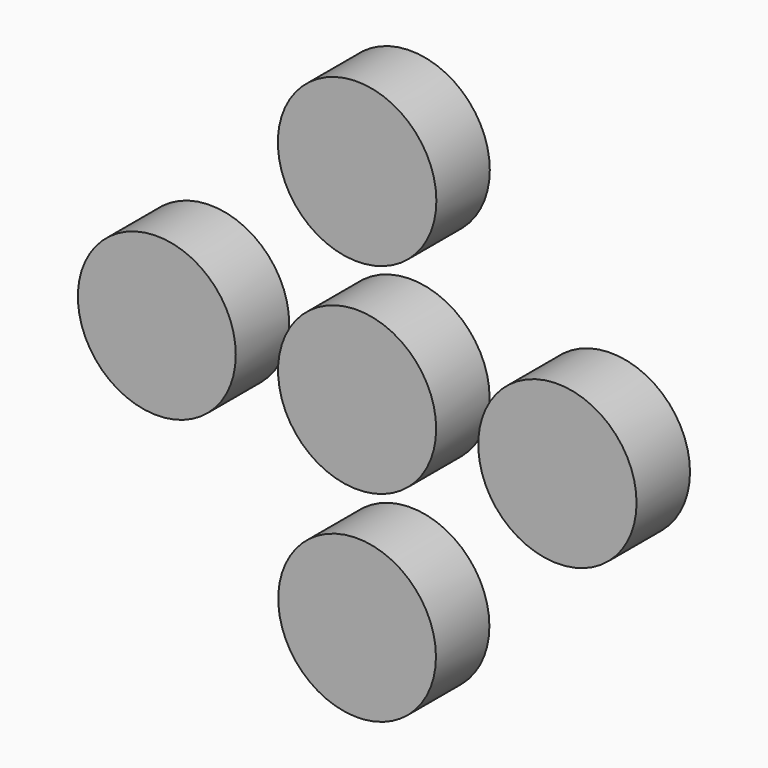
from build123d import *

# Parameters (mm, degrees)
F0_R     = 30.0228
F0_R_2   = 30.0609
F0_R_3   = 30.1371
F0_R_4   = 30.099
F0_R_5   = 29.9847
F1_DEPTH = 25.4


with BuildPart() as f1:
    # F0 (on Front) → F1 (new body)
    with BuildSketch(Plane.XZ):
        with Locations((-76.161414, 0)):
            Circle(F0_R)
        Circle(F0_R_2)
        with Locations((0, 76.363981)):
            Circle(F0_R_3)
        with Locations((76.161422, 0)):
            Circle(F0_R_4)
        with Locations((0, -76.363981)):
            Circle(F0_R_5)
    extrude(amount=F1_DEPTH)


solid = f1.part
